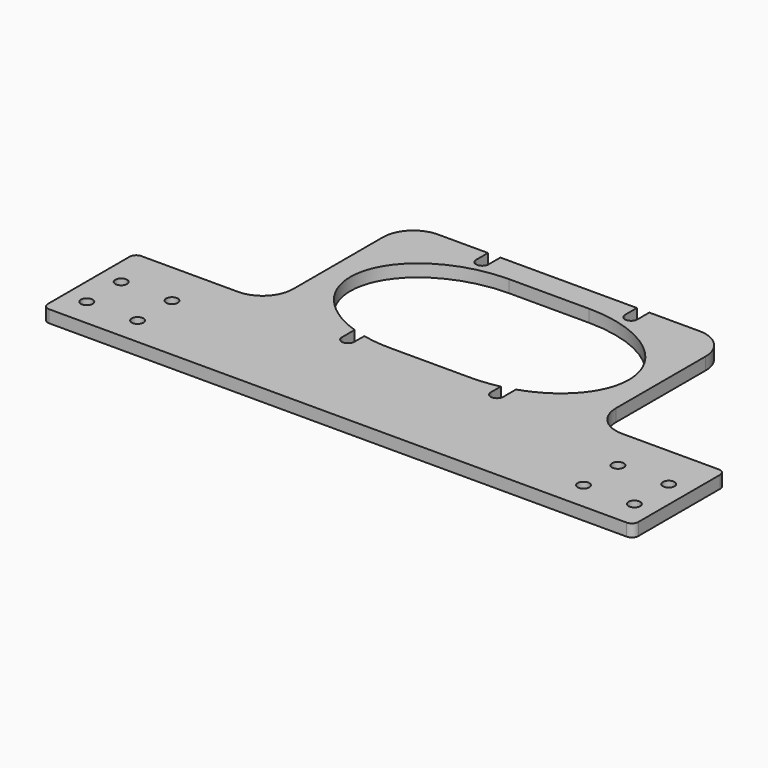
from build123d import *

# Parameters (mm, degrees)
F0_R     = 1.5
F1_DEPTH = 3.175
F3_DEPTH = 12.5


with BuildPart() as f1:
    # F0 (on Top) → F1 (new body)
    with BuildSketch(Plane.XY):
        with BuildLine():
            Line((0, 38.1), (0, 44.323))
            Line((0, 44.323), (-33.461, 44.323))
            ThreePointArc((-33.461, 44.323), (-38.9926963492, 42.0316963492), (-41.284, 36.5))
            Line((-41.284, 36.5), (-41.284, 7.823))
            ThreePointArc((-41.284, 7.823), (-43.5753036508, 2.2913036508), (-49.107, 0))
            Line((-49.107, 0), (-73.882, 0))
            ThreePointArc((-73.882, 0), (-75.0494332957, -0.4835667043), (-75.533, -1.651))
            Line((-75.533, -1.651), (-75.533, -27.813))
            ThreePointArc((-75.533, -27.813), (-75.0494332957, -28.9804332957), (-73.882, -29.464))
            Line((-73.882, -29.464), (0, -29.464))
            Line((0, -29.464), (0, 0))
            Line((0, 0), (-10.232, 0))
            add(Edge.make_bspline(
                [(-10.232, 38.1), (-35.632, 38.1), (-35.632, 19.05), (-35.632, 0), (-10.232, 0)],
                knots=[1.5707963268, 1.5707963268, 1.5707963268, 3.1415926536, 3.1415926536, 4.7123889804, 4.7123889804, 4.7123889804], degree=2, weights=[1, 0.7071067812, 1, 0.7071067812, 1]))
            Line((-10.232, 38.1), (0, 38.1))
        make_face()
        with Locations((-70.042, -22.232)):
            Circle(F0_R, mode=Mode.SUBTRACT)
        with Locations((-57.042, -22.232)):
            Circle(F0_R, mode=Mode.SUBTRACT)
        with Locations((-70.042, -11.232)):
            Circle(F0_R, mode=Mode.SUBTRACT)
        with Locations((-57.042, -11.232)):
            Circle(F0_R, mode=Mode.SUBTRACT)
    extrude(amount=F1_DEPTH)

    # F2 (on Top) → F3 (cut, symmetric)
    with BuildSketch(Plane.XY):
        with BuildLine():
            Line((-20.6375, 50.55129749), (-20.6375, 40.513))
            ThreePointArc((-20.6375, 40.513), (-19.05, 38.9255), (-17.4625, 40.513))
            Line((-17.4625, 40.513), (-17.4625, 50.55129749))
            Line((-17.4625, 50.55129749), (-20.6375, 50.55129749))
        make_face()
        with BuildLine():
            Line((-17.4625, 7.62629749), (-20.6375, 7.62629749))
            Line((-20.6375, 7.62629749), (-20.6375, -2.412))
            ThreePointArc((-20.6375, -2.412), (-19.05, -3.9995), (-17.4625, -2.412))
            Line((-17.4625, -2.412), (-17.4625, 7.62629749))
        make_face()
    extrude(amount=F3_DEPTH, both=True, mode=Mode.SUBTRACT)

    # F4: F1 across plane


with BuildPart() as f1_1:
    add(f1.part)
    add(f1.part.mirror(Plane.YZ))


solid = f1_1.part
